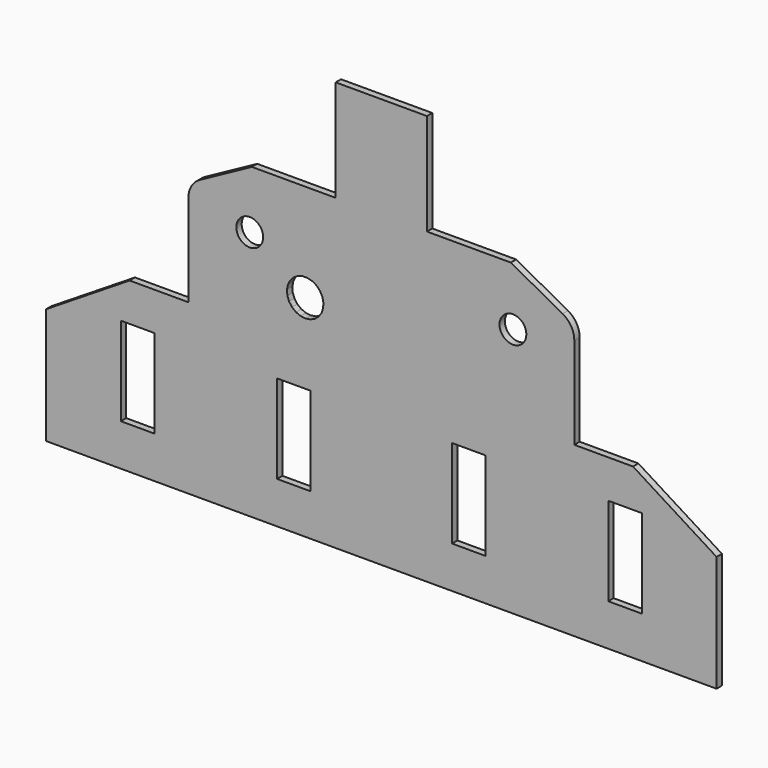
from build123d import *

# Parameters (mm, degrees)
F0_W     = 15
F0_H     = 39.609302
F0_R     = 6
F1_DEPTH = 3


with BuildPart() as f1:
    # F0 (on Front) → F1 (new body)
    with BuildSketch(Plane.XZ):
        with BuildLine():
            Line((0, 51.938787), (0, 0))
            Line((0, 0), (150, 0))
            Line((150, 0), (300, 0))
            Line((300, 0), (300, 51.938787))
            Line((300, 51.938787), (262.61416, 75.391136))
            Line((262.61416, 75.391136), (236.347529, 75.391136))
            Line((236.347529, 75.391136), (236.347529, 116.513391))
            ThreePointArc((236.347529, 116.513391), (234.946518, 121.618035), (231.13605, 125.292346))
            Line((231.13605, 125.292346), (207.944199, 137.942446))
            Line((207.944199, 137.942446), (170.420438, 137.942446))
            Line((170.420438, 137.942446), (170.420438, 183.440013))
            Line((170.420438, 183.440013), (150, 183.440013))
            Line((150, 183.440013), (129.579562, 183.440013))
            Line((129.579562, 183.440013), (129.579562, 137.942446))
            Line((129.579562, 137.942446), (92.055801, 137.942446))
            Line((92.055801, 137.942446), (68.86395, 125.292346))
            ThreePointArc((68.86395, 125.292346), (65.053482, 121.618035), (63.652471, 116.513391))
            Line((63.652471, 116.513391), (63.652471, 75.391136))
            Line((63.652471, 75.391136), (37.38584, 75.391136))
            Line((37.38584, 75.391136), (0, 51.938787))
        make_face()
        with Locations((40.954411, 38.507754)):
            Rectangle(F0_W, F0_H, mode=Mode.SUBTRACT)
        with Locations((110.85318, 38.507754)):
            Rectangle(F0_W, F0_H, mode=Mode.SUBTRACT)
        with Locations((189.14682, 38.507754)):
            Rectangle(F0_W, F0_H, mode=Mode.SUBTRACT)
        with Locations((259.045589, 38.507754)):
            Rectangle(F0_W, F0_H, mode=Mode.SUBTRACT)
        with Locations((91.120891, 111.901462)):
            Circle(F0_R, mode=Mode.SUBTRACT)
        Polygon((116.900374, 102.314752), (119.052999, 101.753865), (120.974473, 100.633006), (122.52229, 99.035304), (123.581654, 97.079253), (124.073999, 94.909925), (123.962808, 92.688209), (123.256328, 90.578878), (122.006956, 88.738374), (120.307352, 87.303197), (118.283568, 86.379787), (116.085698, 86.036631), (113.876749, 86.299178), (111.820548, 87.147956), (110.069594, 88.520016), (108.753747, 90.313598), (107.970599, 92.39568), (107.77823, 94.611844), (108.190909, 96.797727), (109.178029, 98.791212), (110.66638, 100.444451), (112.545577, 101.634832), (114.676249, 102.274068), align=None, mode=Mode.SUBTRACT)
        with Locations((208.879109, 111.901462)):
            Circle(F0_R, mode=Mode.SUBTRACT)
    extrude(amount=F1_DEPTH)


solid = f1.part
